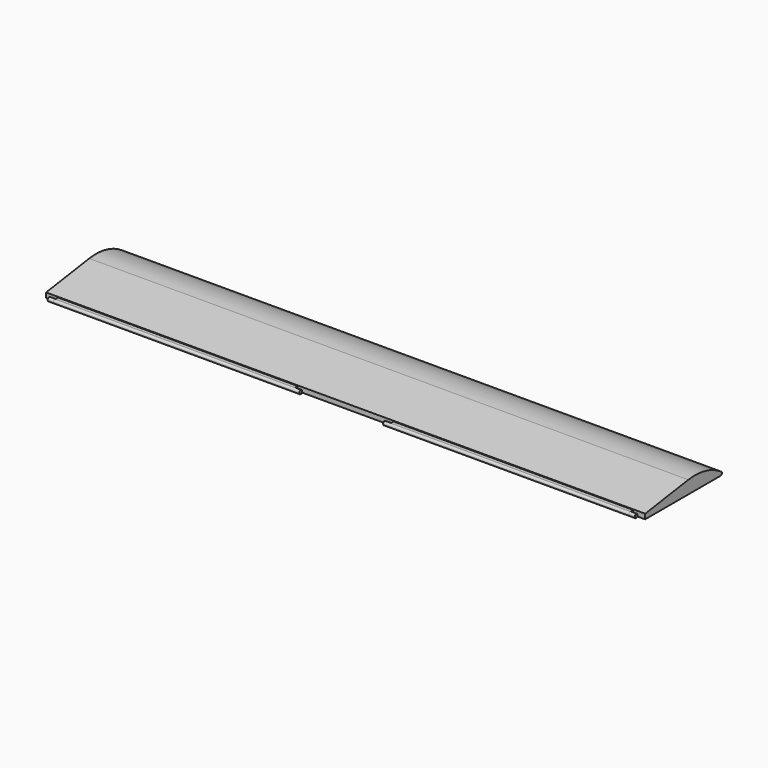
from build123d import *

# Parameters (mm, degrees)
PAD021_DEPTH    = 250
SKETCH046_W     = 3.12
SKETCH046_H     = 200
PAD022_DEPTH    = 4.62
SKETCH047_R     = 1.56
PAD023_DEPTH    = 5
SKETCH048_R     = 1.56
PAD024_DEPTH    = 5
SKETCH049_R     = 1.56
PAD025_DEPTH    = 5
SKETCH050_R     = 1.56
PAD026_DEPTH    = 5
POCKET024_DEPTH = 480


with BuildPart() as part:
    # Sketch045 → Pad021 (new body, symmetric)
    with BuildSketch(Plane.YZ):
        with BuildLine():
            ThreePointArc((79.416029, -1.367224), (62.968794, 5.906774), (45, 6.645022))
            Line((0, 0), (45, 6.645022))
            Line((0, 0), (0, -4.12))
            Line((0, -4.12), (78.558353, -4.12))
            ThreePointArc((78.558353, -4.12), (80, -3.059171), (79.416029, -1.367224))
        make_face()
    extrude(amount=PAD021_DEPTH, both=True)

    # Sketch046 (on Face3 of Pad021) → Pad022 (join)
    with BuildSketch(Plane(origin=(0, 0, 0), x_dir=(0, 0, -1), z_dir=(0, -1, 0))):
        with Locations((2.06, 140)):
            Rectangle(SKETCH046_W, SKETCH046_H)
        with Locations((2.06, -140)):
            Rectangle(SKETCH046_W, SKETCH046_H)
    extrude(amount=PAD022_DEPTH)

    # Sketch047 (on Face11 of Pad022) → Pad023 (join)
    with BuildSketch(Plane.YZ.offset(240)):
        with Locations((-3.06, -2.06)):
            Circle(SKETCH047_R)
    extrude(amount=PAD023_DEPTH)

    # Sketch048 (on Face9 of Pad023) → Pad024 (join)
    with BuildSketch(Plane(origin=(40, 0, 0), x_dir=(0, 1, 0), z_dir=(-1, 0, 0))):
        with Locations((-3.06, 2.06)):
            Circle(SKETCH048_R)
    extrude(amount=PAD024_DEPTH)

    # Sketch049 (on Face15 of Pad024) → Pad025 (join)
    with BuildSketch(Plane.YZ.offset(-40)):
        with Locations((-3.06, -2.06)):
            Circle(SKETCH049_R)
    extrude(amount=PAD025_DEPTH)

    # Sketch050 (on Face13 of Pad025) → Pad026 (join)
    with BuildSketch(Plane(origin=(-240, 0, 0), x_dir=(0, 1, 0), z_dir=(-1, 0, 0))):
        with Locations((-3.06, 2.06)):
            Circle(SKETCH050_R)
    extrude(amount=PAD026_DEPTH)

    # Sketch052 (on Face13 of Pad026) → Pocket024 (cut)
    with BuildSketch(Plane(origin=(-240, 0, 0), x_dir=(0, 1, 0), z_dir=(-1, 0, 0))):
        with BuildLine():
            ThreePointArc((-3.06, 3.62), (-4.619996, 2.06), (-3.06, 0.5))
            Line((-4.62, 0.5), (-3.06, 0.5))
            Line((-4.62, 3.62), (-4.62, 0.5))
            Line((-4.62, 3.62), (-3.06, 3.62))
        make_face()
    extrude(amount=-POCKET024_DEPTH, mode=Mode.SUBTRACT)


solid = part.part
